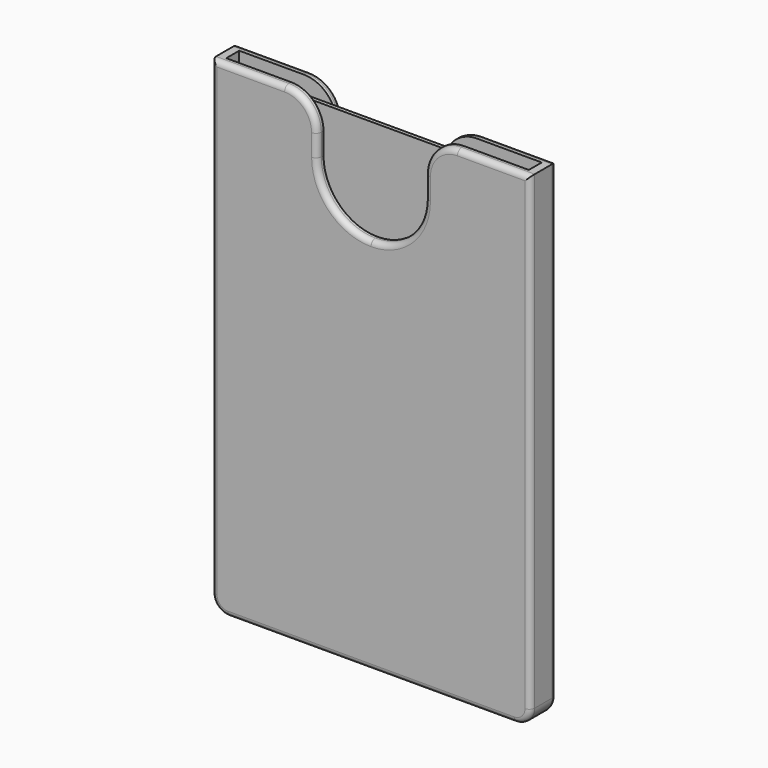
from build123d import *

# Parameters (mm, degrees)
SKETCH_W        = 54
SKETCH_H        = 0.7
PAD_DEPTH       = 85.6
FILLET_R        = 3.18
SKETCH001_W     = 59
SKETCH001_H     = 6
PAD001_DEPTH    = 90
THICKNESS_T     = -1.5
POCKET_DEPTH    = 6.001
SKETCH003_R     = 4
PAD002_DEPTH    = 1.6
SKETCH004_R     = 4
PAD003_DEPTH    = 1.6
CHAMFER_1_SIZE2 = 2.3
CHAMFER_1_SIZE  = 1.55
CHAMFER_2_SIZE2 = 2.3
CHAMFER_2_SIZE  = 1.55
CHAMFER_3_SIZE2 = 2.3
CHAMFER_3_SIZE  = 1.55
FILLET001_R     = 2.29
FILLET002_R     = 6
FILLET003_R     = 3
FILLET004_R     = 1
FILLET005_R     = 1


with BuildPart() as card:
    # Sketch → Pad (new body)
    with BuildSketch(Plane.XY.offset(2)):
        Rectangle(SKETCH_W, SKETCH_H)
    extrude(amount=PAD_DEPTH)

    # Fillet
    fillet_edges = [card.edges().sort_by_distance(p)[0] for p in [
        (-27, 0, 2),
        (-27, 0, 87.6),
        (27, 0, 87.6),
        (27, 0, 2),
    ]]
    fillet(fillet_edges, radius=FILLET_R)


with BuildPart() as wallet:
    # Sketch001 → Pad001 (new body)
    with BuildSketch(Plane.XY):
        Rectangle(SKETCH001_W, SKETCH001_H)
    extrude(amount=PAD001_DEPTH)

    # Thickness
    thickness_openings = [wallet.faces().sort_by_distance(p)[0] for p in [
        (0, 0, 90),
    ]]
    offset(amount=THICKNESS_T, openings=thickness_openings)

    # Sketch002 (on Face2 of Pad001) → Pocket (cut, through all)
    with BuildSketch(Plane(origin=(0, 3, 0), x_dir=(-1, 0, 0), z_dir=(0, 1, 0))):
        with BuildLine():
            Line((-0.01, 70), (0.01, 70))
            ThreePointArc((0.01, 70), (7.073997, 72.926003), (10, 79.99))
            Line((10, 79.99), (10, 90))
            Line((10, 90), (-10, 90))
            Line((-10, 90), (-10, 79.99))
            ThreePointArc((-10, 79.99), (-7.073997, 72.926003), (-0.01, 70))
        make_face()
    extrude(amount=-POCKET_DEPTH, mode=Mode.SUBTRACT)

    # Sketch003 (on Face18 of Pocket) → Pad002 (join)
    with BuildSketch(Plane(origin=(0, -1.5, 0), x_dir=(-1, 0, 0), z_dir=(0, 1, 0))):
        with Locations((0, 60)):
            Circle(SKETCH003_R)
        with Locations((0, 20)):
            Circle(SKETCH003_R)
    extrude(amount=PAD002_DEPTH)

    # Sketch004 (on Face20 of Pad002) → Pad003 (join)
    with BuildSketch(Plane.XZ.offset(-1.5)):
        with Locations((0, 40)):
            Circle(SKETCH004_R)
    extrude(amount=PAD003_DEPTH)

    # Chamfer 1
    chamfer_1_edges = [wallet.edges().sort_by_distance(p)[0] for p in [
        (4, 0.1, 60),
    ]]
    chamfer_1_side = wallet.faces().sort_by_distance((4, -0.7, 60))[0]
    chamfer(chamfer_1_edges, length=CHAMFER_1_SIZE, length2=CHAMFER_1_SIZE2, reference=chamfer_1_side)

    # Chamfer 2
    chamfer_2_edges = [wallet.edges().sort_by_distance(p)[0] for p in [
        (-4, -0.1, 40),
    ]]
    chamfer_2_side = wallet.faces().sort_by_distance((-4, 0.7, 40))[0]
    chamfer(chamfer_2_edges, length=CHAMFER_2_SIZE, length2=CHAMFER_2_SIZE2, reference=chamfer_2_side)

    # Chamfer 3
    chamfer_3_edges = [wallet.edges().sort_by_distance(p)[0] for p in [
        (4, 0.1, 20),
    ]]
    chamfer_3_side = wallet.faces().sort_by_distance((4, -0.7, 20))[0]
    chamfer(chamfer_3_edges, length=CHAMFER_3_SIZE, length2=CHAMFER_3_SIZE2, reference=chamfer_3_side)

    # Fillet001
    fillet001_edges = [wallet.edges().sort_by_distance(p)[0] for p in [
        (1.7, 0.1, 60),
        (-1.7, -0.1, 40),
        (1.7, 0.1, 20),
    ]]
    fillet(fillet001_edges, radius=FILLET001_R)

    # Fillet002
    fillet002_edges = [wallet.edges().sort_by_distance(p)[0] for p in [
        (-10, 2.25, 90),
        (-10, -2.25, 90),
        (10, 2.25, 90),
        (10, -2.25, 90),
    ]]
    fillet(fillet002_edges, radius=FILLET002_R)

    # Fillet003
    fillet003_edges = [wallet.edges().sort_by_distance(p)[0] for p in [
        (-29.5, 0, 0),
        (29.5, 0, 0),
    ]]
    fillet(fillet003_edges, radius=FILLET003_R)

    # Fillet004
    fillet004_edges = [wallet.edges().sort_by_distance(p)[0] for p in [
        (-29.5, 3, 46.5),
        (-28.62132, 3, 0.87868),
        (-22.75, 3, 90),
        (0, 3, 0),
        (-11.757359, 3, 88.242641),
        (28.62132, 3, 0.87868),
        (-10, 3, 81.995),
        (29.5, 3, 46.5),
        (-7.073997, 3, 72.926003),
        (22.75, 3, 90),
        (0, 3, 70),
        (11.757359, 3, 88.242641),
        (7.073997, 3, 72.926003),
        (10, 3, 81.995),
    ]]
    fillet(fillet004_edges, radius=FILLET004_R)

    # Fillet005
    fillet005_edges = [wallet.edges().sort_by_distance(p)[0] for p in [
        (29.5, -3, 46.5),
        (28.62132, -3, 0.87868),
        (22.75, -3, 90),
        (0, -3, 0),
        (11.757359, -3, 88.242641),
        (-28.62132, -3, 0.87868),
        (10, -3, 81.995),
        (-29.5, -3, 46.5),
        (7.073997, -3, 72.926003),
        (-22.75, -3, 90),
        (0, -3, 70),
        (-11.757359, -3, 88.242641),
        (-7.073997, -3, 72.926003),
        (-10, -3, 81.995),
    ]]
    fillet(fillet005_edges, radius=FILLET005_R)


solid = Compound([card.part, wallet.part])
